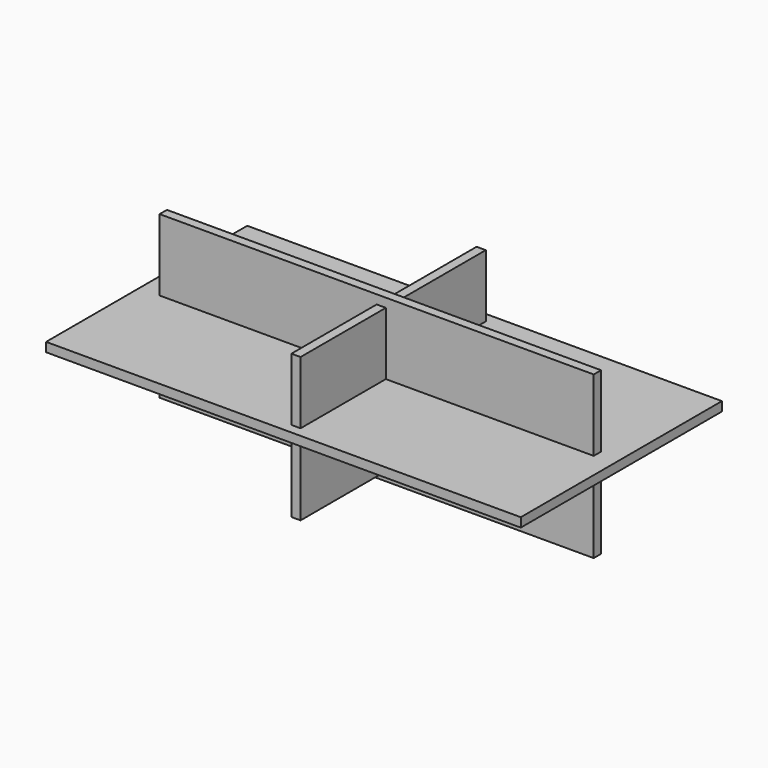
from build123d import *

# Parameters (mm, degrees)
F0_W     = 1203.49264
F0_H     = 448.315588
F1_DEPTH = 25.4
F2_W     = 1316.091538
F2_H     = 697.101116
F3_DEPTH = 25.4
F4_W     = 641.82043
F4_H     = 398.742794
F5_DEPTH = 25.4


with BuildPart() as f1:
    # F0 (on Front) → F1 (new body)
    with BuildSketch(Plane.XZ):
        Rectangle(F0_W, F0_H)
    extrude(amount=F1_DEPTH)

    # F2 (on Top) → F3 (join)
    with BuildSketch(Plane.XY):
        Rectangle(F2_W, F2_H)
    extrude(amount=F3_DEPTH)

    # F4 (on Right) → F5 (join)
    with BuildSketch(Plane.YZ):
        Rectangle(F4_W, F4_H)
    extrude(amount=F5_DEPTH)


solid = f1.part
